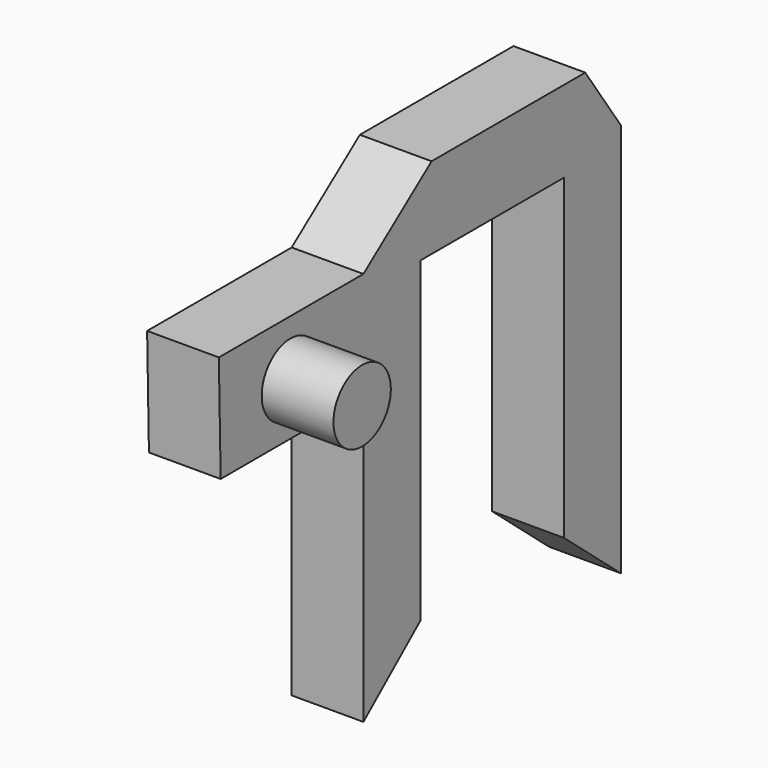
from build123d import *

# Parameters (mm, degrees)
F1_DEPTH = 25.4
F2_R     = 12.7
F3_DEPTH = 25.4


with BuildPart() as f1:
    # F0 (on Right) → F1 (new body)
    with BuildSketch(Plane.YZ):
        Polygon((-25.223499, 16.867001), (-89.197024, 16.867001), (-88.39232, -21.356173), (-25.223499, -21.356173), (-25.223499, -122.748177), (0, -101.43866), (0, 10.816771), (63.5, 10.816771), (63.5, -101.43866), (88.723499, -122.748177), (88.723499, 16.867001), (72.94971, 39.727001), (4.952693, 39.727001), align=None)
    extrude(amount=F1_DEPTH)

    # F2 (on face) → F3 (join)
    with BuildSketch(Plane.YZ.offset(25.4)):
        with Locations((-57.532765, -2.797812)):
            Circle(F2_R)
    extrude(amount=F3_DEPTH)


solid = f1.part
